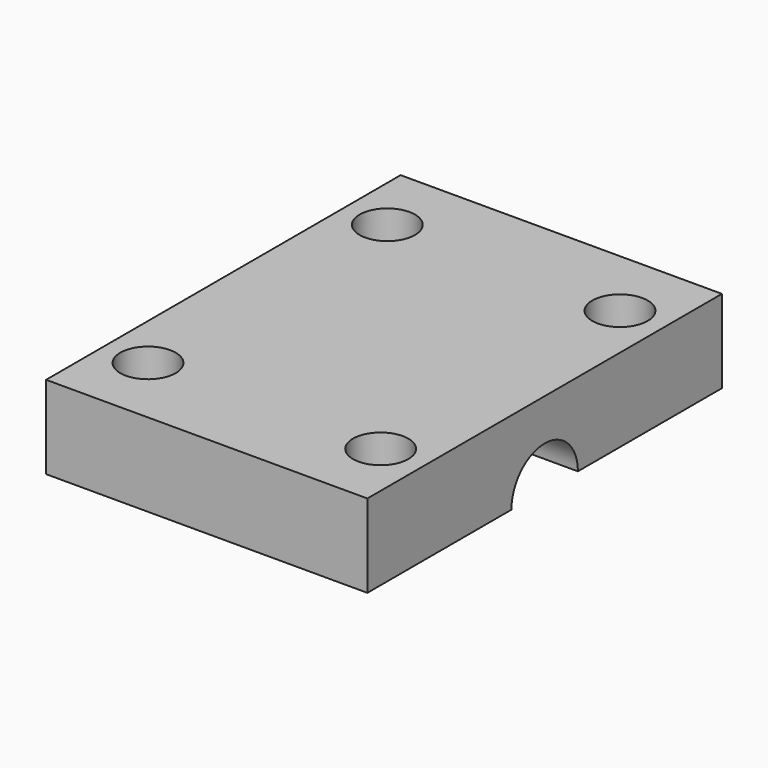
from build123d import *

# Parameters (mm, degrees)
F0_W     = 58
F0_H     = 32.5
F0_R     = 5
F0_H_2   = 15
F1_DEPTH = 15
F2_R     = 7.5
F3_DEPTH = 30


with BuildPart() as f1:
    # F0 (on Top) → F1 (new body)
    with BuildSketch(Plane.XY):
        with Locations((0, 23.75)):
            Rectangle(F0_W, F0_H)
        with Locations((-21, 27)):
            Circle(F0_R, mode=Mode.SUBTRACT)
        with Locations((21, 27)):
            Circle(F0_R, mode=Mode.SUBTRACT)
        Rectangle(F0_W, F0_H_2)
        with Locations((0, -23.75)):
            Rectangle(F0_W, F0_H)
        with Locations((-21, -27)):
            Circle(F0_R, mode=Mode.SUBTRACT)
        with Locations((21, -27)):
            Circle(F0_R, mode=Mode.SUBTRACT)
    extrude(amount=F1_DEPTH)

    # F2 (on Right) → F3 (cut, symmetric)
    with BuildSketch(Plane.YZ):
        Circle(F2_R)
    extrude(amount=F3_DEPTH, both=True, mode=Mode.SUBTRACT)


solid = f1.part
